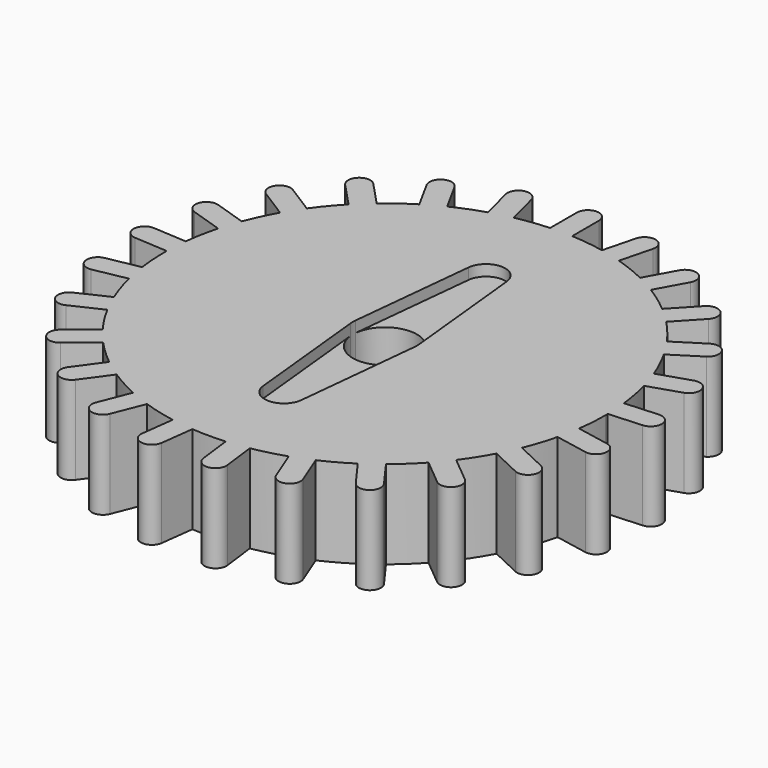
from build123d import *

# Parameters (mm, degrees)
F1_DEPTH = 10.16
F3_DEPTH = 1.27
F4_DEPTH = 25.4


with BuildPart() as f1:
    # F0 (on Top) → F1 (new body)
    with BuildSketch(Plane.XY):
        with BuildLine():
            ThreePointArc((25.156863, -3.506028), (25.339143, -1.757224), (25.4, 0))
            ThreePointArc((25.4, 0), (25.399479, 0.162699), (25.397916, 0.32539))
            ThreePointArc((25.397916, 0.32539), (25.349879, 1.594879), (25.238428, 2.860378))
            ThreePointArc((25.238428, 2.860378), (24.950096, 4.759485), (24.519072, 6.631372))
            ThreePointArc((24.519072, 6.631372), (24.156836, 7.849032), (23.734169, 9.047056))
            ThreePointArc((23.734169, 9.047056), (22.982607, 10.814794), (22.099605, 12.520681))
            ThreePointArc((22.099605, 12.520681), (21.445929, 13.610001), (20.738605, 14.665274))
            ThreePointArc((20.738605, 14.665274), (19.571036, 16.190569), (18.291539, 17.623269))
            ThreePointArc((18.291539, 17.623269), (17.387496, 18.515803), (16.439958, 19.362019))
            ThreePointArc((16.439958, 19.362019), (14.929745, 20.549032), (13.334148, 21.618522))
            ThreePointArc((13.334148, 21.618522), (12.236543, 22.25819), (11.108329, 22.842177))
            ThreePointArc((11.108329, 22.842177), (9.350364, 23.616323), (7.538923, 24.255404))
            ThreePointArc((7.538923, 24.255404), (6.316723, 24.602012), (5.078722, 24.887077))
            ThreePointArc((5.078722, 24.887077), (3.183464, 25.199713), (1.27, 25.36823))
            ThreePointArc((1.27, 25.36823), (0, 25.4), (-1.27, 25.36823))
            ThreePointArc((-1.27, 25.36823), (-3.183464, 25.199713), (-5.078722, 24.887077))
            ThreePointArc((-5.078722, 24.887077), (-6.316723, 24.602012), (-7.538923, 24.255404))
            ThreePointArc((-7.538923, 24.255404), (-9.350364, 23.616323), (-11.108329, 22.842177))
            ThreePointArc((-11.108329, 22.842177), (-12.236543, 22.25819), (-13.334148, 21.618522))
            ThreePointArc((-13.334148, 21.618522), (-14.929745, 20.549032), (-16.439958, 19.362019))
            ThreePointArc((-16.439958, 19.362019), (-17.387496, 18.515803), (-18.291539, 17.623269))
            ThreePointArc((-18.291539, 17.623269), (-19.571036, 16.190569), (-20.738605, 14.665274))
            ThreePointArc((-20.738605, 14.665274), (-21.445929, 13.610001), (-22.099605, 12.520681))
            ThreePointArc((-22.099605, 12.520681), (-22.982607, 10.814794), (-23.734169, 9.047056))
            ThreePointArc((-23.734169, 9.047056), (-24.156836, 7.849032), (-24.519072, 6.631372))
            ThreePointArc((-24.519072, 6.631372), (-24.950096, 4.759485), (-25.238428, 2.860378))
            ThreePointArc((-25.238428, 2.860378), (-25.349879, 1.594879), (-25.397916, 0.32539))
            ThreePointArc((-25.397916, 0.32539), (-25.349879, -1.594879), (-25.156863, -3.506028))
            ThreePointArc((-25.156863, -3.506028), (-24.950096, -4.759485), (-24.680915, -6.001037))
            ThreePointArc((-24.680915, -6.001037), (-24.156836, -7.849032), (-23.494601, -9.652137))
            ThreePointArc((-23.494601, -9.652137), (-22.982607, -10.814794), (-22.413121, -11.950397))
            ThreePointArc((-22.413121, -11.950397), (-21.445929, -13.610001), (-20.356086, -15.191767))
            ThreePointArc((-20.356086, -15.191767), (-19.571036, -16.190569), (-18.737029, -17.14887))
            ThreePointArc((-18.737029, -17.14887), (-17.387496, -18.515803), (-15.938523, -19.776842))
            ThreePointArc((-15.938523, -19.776842), (-14.929745, -20.549032), (-13.88362, -21.269817))
            ThreePointArc((-13.88362, -21.269817), (-12.236543, -22.25819), (-10.519485, -23.119266))
            ThreePointArc((-10.519485, -23.119266), (-9.350364, -23.616323), (-8.157852, -24.054302))
            ThreePointArc((-8.157852, -24.054302), (-6.316723, -24.602012), (-4.439468, -25.009021))
            ThreePointArc((-4.439468, -25.009021), (-3.183464, -25.199713), (-1.919497, -25.327367))
            ThreePointArc((-1.919497, -25.327367), (0, -25.4), (1.919497, -25.327367))
            ThreePointArc((1.919497, -25.327367), (3.183464, -25.199713), (4.439468, -25.009021))
            ThreePointArc((4.439468, -25.009021), (6.316723, -24.602012), (8.157852, -24.054302))
            ThreePointArc((8.157852, -24.054302), (9.350364, -23.616323), (10.519485, -23.119266))
            ThreePointArc((10.519485, -23.119266), (12.236543, -22.25819), (13.88362, -21.269817))
            ThreePointArc((13.88362, -21.269817), (14.929745, -20.549032), (15.938523, -19.776842))
            ThreePointArc((15.938523, -19.776842), (17.387496, -18.515803), (18.737029, -17.14887))
            ThreePointArc((18.737029, -17.14887), (19.571036, -16.190569), (20.356086, -15.191767))
            ThreePointArc((20.356086, -15.191767), (21.445929, -13.610001), (22.413121, -11.950397))
            ThreePointArc((22.413121, -11.950397), (22.982607, -10.814794), (23.494601, -9.652137))
            ThreePointArc((23.494601, -9.652137), (24.156836, -7.849032), (24.680915, -6.001037))
            ThreePointArc((24.680915, -6.001037), (24.950096, -4.759485), (25.156863, -3.506028))
        make_face()
        with BuildLine():
            ThreePointArc((25.238428, 2.860378), (25.349879, 1.594879), (25.397916, 0.32539))
            Line((25.397916, 0.32539), (29.232105, 0.566617))
            ThreePointArc((29.232105, 0.566617), (30.419855, 1.913855), (29.072617, 3.101605))
            Line((29.072617, 3.101605), (25.238428, 2.860378))
        make_face()
        with BuildLine():
            Line((28.930585, -4.225903), (25.156863, -3.506028))
            ThreePointArc((25.156863, -3.506028), (24.950096, -4.759485), (24.680915, -6.001037))
            Line((24.680915, -6.001037), (28.454636, -6.720913))
            ThreePointArc((28.454636, -6.720913), (29.940115, -5.711382), (28.930585, -4.225903))
        make_face()
        with BuildLine():
            ThreePointArc((23.734169, 9.047056), (24.156836, 7.849032), (24.519072, 6.631372))
            Line((24.519072, 6.631372), (28.172812, 7.818545))
            ThreePointArc((28.172812, 7.818545), (28.988203, 9.418838), (27.387909, 10.234228))
            Line((27.387909, 10.234228), (23.734169, 9.047056))
        make_face()
        with BuildLine():
            Line((26.970738, -11.287883), (23.494601, -9.652137))
            ThreePointArc((23.494601, -9.652137), (22.982607, -10.814794), (22.413121, -11.950397))
            Line((22.413121, -11.950397), (25.889259, -13.586143))
            ThreePointArc((25.889259, -13.586143), (27.579129, -12.977753), (26.970738, -11.287883))
        make_face()
        with BuildLine():
            ThreePointArc((20.738605, 14.665274), (21.445929, 13.610001), (22.099605, 12.520681))
            Line((22.099605, 12.520681), (25.343319, 14.579204))
            ThreePointArc((25.343319, 14.579204), (25.735115, 16.332001), (23.982319, 16.723797))
            Line((23.982319, 16.723797), (20.738605, 14.665274))
        make_face()
        with BuildLine():
            Line((23.31622, -17.640603), (20.356086, -15.191767))
            ThreePointArc((20.356086, -15.191767), (19.571036, -16.190569), (18.737029, -17.14887))
            Line((18.737029, -17.14887), (21.697163, -19.597707))
            ThreePointArc((21.697163, -19.597707), (23.485244, -19.428683), (23.31622, -17.640603))
        make_face()
        with BuildLine():
            ThreePointArc((16.439958, 19.362019), (17.387496, 18.515803), (18.291539, 17.623269))
            Line((18.291539, 17.623269), (20.921411, 20.423799))
            ThreePointArc((20.921411, 20.423799), (20.864996, 22.218964), (19.069831, 22.162548))
            Line((19.069831, 22.162548), (16.439958, 19.362019))
        make_face()
        with BuildLine():
            Line((18.196659, -22.884899), (15.938523, -19.776842))
            ThreePointArc((15.938523, -19.776842), (14.929745, -20.549032), (13.88362, -21.269817))
            Line((13.88362, -21.269817), (16.141756, -24.377874))
            ThreePointArc((16.141756, -24.377874), (17.915694, -24.658838), (18.196659, -22.884899))
        make_face()
        with BuildLine():
            ThreePointArc((11.108329, 22.842177), (12.236543, 22.25819), (13.334148, 21.618522))
            Line((13.334148, 21.618522), (15.184934, 24.985091))
            ThreePointArc((15.184934, 24.985091), (14.683852, 26.709828), (12.959115, 26.208745))
            Line((12.959115, 26.208745), (11.108329, 22.842177))
        make_face()
        with BuildLine():
            Line((11.933734, -26.691253), (10.519485, -23.119266))
            ThreePointArc((10.519485, -23.119266), (9.350364, -23.616323), (8.157852, -24.054302))
            Line((8.157852, -24.054302), (9.572102, -27.626289))
            ThreePointArc((9.572102, -27.626289), (11.220436, -28.339587), (11.933734, -26.691253))
        make_face()
        with BuildLine():
            ThreePointArc((5.078722, 24.887077), (6.316723, 24.602012), (7.538923, 24.255404))
            Line((7.538923, 24.255404), (8.494332, 27.976478))
            ThreePointArc((8.494332, 27.976478), (7.580068, 29.522415), (6.034131, 28.60815))
            Line((6.034131, 28.60815), (5.078722, 24.887077))
        make_face()
        with BuildLine():
            Line((4.920969, -28.820497), (4.439468, -25.009021))
            ThreePointArc((4.439468, -25.009021), (3.183464, -25.199713), (1.919497, -25.327367))
            Line((1.919497, -25.327367), (2.400998, -29.138844))
            ThreePointArc((2.400998, -29.138844), (3.820157, -30.239656), (4.920969, -28.820497))
        make_face()
        with BuildLine():
            ThreePointArc((-1.27, 25.36823), (0, 25.4), (1.27, 25.36823))
            Line((1.27, 25.36823), (1.27, 29.21))
            ThreePointArc((1.27, 29.21), (0, 30.48), (-1.27, 29.21))
            Line((-1.27, 29.21), (-1.27, 25.36823))
        make_face()
        with BuildLine():
            Line((-2.400998, -29.138844), (-1.919497, -25.327367))
            ThreePointArc((-1.919497, -25.327367), (-3.183464, -25.199713), (-4.439468, -25.009021))
            Line((-4.439468, -25.009021), (-4.920969, -28.820497))
            ThreePointArc((-4.920969, -28.820497), (-3.820157, -30.239656), (-2.400998, -29.138844))
        make_face()
        with BuildLine():
            ThreePointArc((-7.538923, 24.255404), (-6.316723, 24.602012), (-5.078722, 24.887077))
            Line((-5.078722, 24.887077), (-6.034131, 28.60815))
            ThreePointArc((-6.034131, 28.60815), (-7.580068, 29.522415), (-8.494332, 27.976478))
            Line((-8.494332, 27.976478), (-7.538923, 24.255404))
        make_face()
        with BuildLine():
            Line((-9.572102, -27.626289), (-8.157852, -24.054302))
            ThreePointArc((-8.157852, -24.054302), (-9.350364, -23.616323), (-10.519485, -23.119266))
            Line((-10.519485, -23.119266), (-11.933734, -26.691253))
            ThreePointArc((-11.933734, -26.691253), (-11.220436, -28.339587), (-9.572102, -27.626289))
        make_face()
        with BuildLine():
            ThreePointArc((-13.334148, 21.618522), (-12.236543, 22.25819), (-11.108329, 22.842177))
            Line((-11.108329, 22.842177), (-12.959115, 26.208745))
            ThreePointArc((-12.959115, 26.208745), (-14.683852, 26.709828), (-15.184934, 24.985091))
            Line((-15.184934, 24.985091), (-13.334148, 21.618522))
        make_face()
        with BuildLine():
            Line((-16.141756, -24.377874), (-13.88362, -21.269817))
            ThreePointArc((-13.88362, -21.269817), (-14.929745, -20.549032), (-15.938523, -19.776842))
            Line((-15.938523, -19.776842), (-18.196659, -22.884899))
            ThreePointArc((-18.196659, -22.884899), (-17.915694, -24.658838), (-16.141756, -24.377874))
        make_face()
        with BuildLine():
            ThreePointArc((-18.291539, 17.623269), (-17.387496, 18.515803), (-16.439958, 19.362019))
            Line((-16.439958, 19.362019), (-19.069831, 22.162548))
            ThreePointArc((-19.069831, 22.162548), (-20.864996, 22.218964), (-20.921411, 20.423799))
            Line((-20.921411, 20.423799), (-18.291539, 17.623269))
        make_face()
        with BuildLine():
            Line((-21.697163, -19.597707), (-18.737029, -17.14887))
            ThreePointArc((-18.737029, -17.14887), (-19.571036, -16.190569), (-20.356086, -15.191767))
            Line((-20.356086, -15.191767), (-23.31622, -17.640603))
            ThreePointArc((-23.31622, -17.640603), (-23.485244, -19.428683), (-21.697163, -19.597707))
        make_face()
        with BuildLine():
            ThreePointArc((-22.099605, 12.520681), (-21.445929, 13.610001), (-20.738605, 14.665274))
            Line((-20.738605, 14.665274), (-23.982319, 16.723797))
            ThreePointArc((-23.982319, 16.723797), (-25.735115, 16.332001), (-25.343319, 14.579204))
            Line((-25.343319, 14.579204), (-22.099605, 12.520681))
        make_face()
        with BuildLine():
            Line((-25.889259, -13.586143), (-22.413121, -11.950397))
            ThreePointArc((-22.413121, -11.950397), (-22.982607, -10.814794), (-23.494601, -9.652137))
            Line((-23.494601, -9.652137), (-26.970738, -11.287883))
            ThreePointArc((-26.970738, -11.287883), (-27.579129, -12.977753), (-25.889259, -13.586143))
        make_face()
        with BuildLine():
            ThreePointArc((-24.519072, 6.631372), (-24.156836, 7.849032), (-23.734169, 9.047056))
            Line((-23.734169, 9.047056), (-27.387909, 10.234228))
            ThreePointArc((-27.387909, 10.234228), (-28.988203, 9.418838), (-28.172812, 7.818545))
            Line((-28.172812, 7.818545), (-24.519072, 6.631372))
        make_face()
        with BuildLine():
            Line((-28.454636, -6.720913), (-24.680915, -6.001037))
            ThreePointArc((-24.680915, -6.001037), (-24.950096, -4.759485), (-25.156863, -3.506028))
            Line((-25.156863, -3.506028), (-28.930585, -4.225903))
            ThreePointArc((-28.930585, -4.225903), (-29.940115, -5.711382), (-28.454636, -6.720913))
        make_face()
        with BuildLine():
            ThreePointArc((-25.397916, 0.32539), (-25.349879, 1.594879), (-25.238428, 2.860378))
            Line((-25.238428, 2.860378), (-29.072617, 3.101605))
            ThreePointArc((-29.072617, 3.101605), (-30.419855, 1.913855), (-29.232105, 0.566617))
            Line((-29.232105, 0.566617), (-25.397916, 0.32539))
        make_face()
    extrude(amount=F1_DEPTH)

    # F2 (on face) → F3 (cut)
    with BuildSketch(Plane.XY.offset(10.16)):
        with BuildLine():
            Line((-2.2, 14.778601), (-3.680596, 0.378431))
            ThreePointArc((-3.680596, 0.378431), (0, 3.7), (3.680596, 0.378431))
            Line((3.680596, 0.378431), (2.2, 14.778601))
            ThreePointArc((2.2, 14.778601), (0, 16.764), (-2.2, 14.778601))
        make_face()
        with BuildLine():
            Line((2.2, -14.778601), (3.680596, -0.378431))
            ThreePointArc((3.680596, -0.378431), (0, -3.7), (-3.680596, -0.378431))
            Line((-3.680596, -0.378431), (-2.2, -14.778601))
            ThreePointArc((-2.2, -14.778601), (0, -16.764), (2.2, -14.778601))
        make_face()
    extrude(amount=-F3_DEPTH, mode=Mode.SUBTRACT)

    # F2 (on face) → F4 (cut)
    with BuildSketch(Plane.XY.offset(10.16)):
        with BuildLine():
            ThreePointArc((-3.680596, -0.378431), (0, -3.7), (3.680596, -0.378431))
            ThreePointArc((3.680596, -0.378431), (3.695146, -0.189464), (3.7, 0))
            ThreePointArc((3.7, 0), (3.695146, 0.189464), (3.680596, 0.378431))
            ThreePointArc((3.680596, 0.378431), (0, 3.7), (-3.680596, 0.378431))
            ThreePointArc((-3.680596, 0.378431), (-3.7, 0), (-3.680596, -0.378431))
        make_face()
    extrude(amount=-F4_DEPTH, mode=Mode.SUBTRACT)


solid = f1.part
